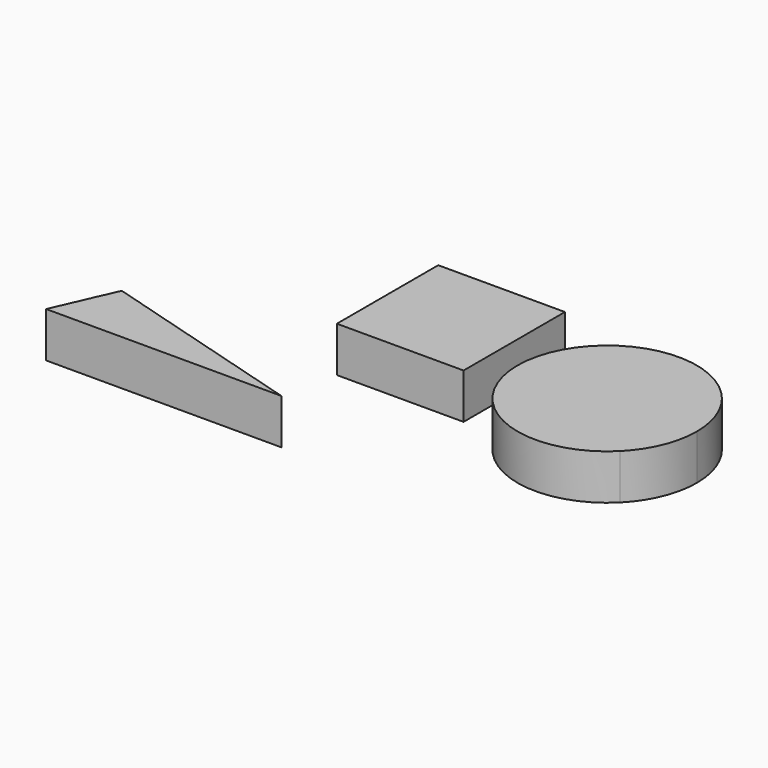
from build123d import *

# Parameters (mm, degrees)
F0_W     = 70
F0_H     = 70
F0_R     = 34.6665784116
F1_DEPTH = 25


with BuildPart() as f1:
    # F0 (on Top) → F1 (new body)
    with BuildSketch(Plane.XY):
        with Locations((-34.7177423537, 36.4523915446)):
            Rectangle(F0_W, F0_H)
        with Locations((-34.7177423537, 36.4523915446)):
            Circle(F0_R, mode=Mode.SUBTRACT)
        with Locations((-34.7177423537, 36.4523915446)):
            Circle(F0_R)
    extrude(amount=F1_DEPTH)


with BuildPart() as f1b:
    # F0 (on Top) → F1, piece 2 (new body)
    with BuildSketch(Plane.XY):
        with BuildLine():
            ThreePointArc((99.9830362201, 54.7738714889), (64.9830362201, 69.2713461719), (29.9830362201, 54.7738714889))
            Line((29.9830362201, 54.7738714889), (99.9830362201, 54.7738714889))
        make_face()
        with Locations((64.9830362201, 19.7738714889)):
            Rectangle(F0_W, F0_H)
        with BuildLine():
            Line((29.9830362201, -15.2261285111), (29.9830362201, 54.7738714889))
            ThreePointArc((29.9830362201, 54.7738714889), (15.485561537, 19.7738714889), (29.9830362201, -15.2261285111))
        make_face()
        with BuildLine():
            ThreePointArc((114.4805109031, 19.7738714889), (110.7127399907, 38.715734994), (99.9830362201, 54.7738714889))
            Line((99.9830362201, 54.7738714889), (99.9830362201, -15.2261285111))
            ThreePointArc((99.9830362201, -15.2261285111), (110.7127399907, 0.8320079838), (114.4805109031, 19.7738714889))
        make_face()
        with BuildLine():
            Line((99.9830362201, -15.2261285111), (29.9830362201, -15.2261285111))
            ThreePointArc((29.9830362201, -15.2261285111), (64.9830362201, -29.7236031942), (99.9830362201, -15.2261285111))
        make_face()
    extrude(amount=F1_DEPTH)


with BuildPart() as f1c:
    # F0 (on Top) → F1, piece 3 (new body)
    with BuildSketch(Plane.XY):
        with BuildLine():
            Line((-167.4532014709, -46.2568461603), (-176.2380748987, -66.2246495485))
            Line((-176.2380748987, -66.2246495485), (-46.2380748987, -66.2246495485))
            Line((-46.2380748987, -66.2246495485), (-146.7831098452, -36.7860326256))
            ThreePointArc((-146.7831098452, -36.7860326256), (-140.1550537688, -42.4009590309), (-137.6767319393, -50.7266089635))
            ThreePointArc((-137.6767319393, -50.7266089635), (-155.1603666553, -65.7816489608), (-167.4532014709, -46.2568461603))
        make_face()
        with BuildLine():
            ThreePointArc((-166.0283570259, -43.0182094321), (-166.8351873466, -44.5959927722), (-167.4532014709, -46.2568461603))
            Line((-167.4532014709, -46.2568461603), (-166.0283570259, -43.0182094321))
        make_face()
        with BuildLine():
            Line((-166.0283570259, -43.0182094321), (-167.4532014709, -46.2568461603))
            ThreePointArc((-167.4532014709, -46.2568461603), (-155.1603666553, -65.7816489608), (-137.6767319393, -50.7266089635))
            ThreePointArc((-137.6767319393, -50.7266089635), (-140.1550537688, -42.4009590309), (-146.7831098452, -36.7860326256))
            Line((-146.7831098452, -36.7860326256), (-150.5329868093, -35.6881048013))
            ThreePointArc((-150.5329868093, -35.6881048013), (-159.4103952668, -36.9649945434), (-166.0283570259, -43.0182094321))
        make_face()
        with BuildLine():
            Line((-150.5329868093, -35.6881048013), (-146.7831098452, -36.7860326256))
            ThreePointArc((-146.7831098452, -36.7860326256), (-148.6226779618, -36.1162643074), (-150.5329868093, -35.6881048013))
        make_face()
        with BuildLine():
            Line((-161.403227687, -32.5054030675), (-166.0283570259, -43.0182094321))
            ThreePointArc((-166.0283570259, -43.0182094321), (-159.4103952668, -36.9649945434), (-150.5329868093, -35.6881048013))
            Line((-150.5329868093, -35.6881048013), (-161.403227687, -32.5054030675))
        make_face()
    extrude(amount=F1_DEPTH)


solid = Compound([f1.part, f1b.part, f1c.part])
